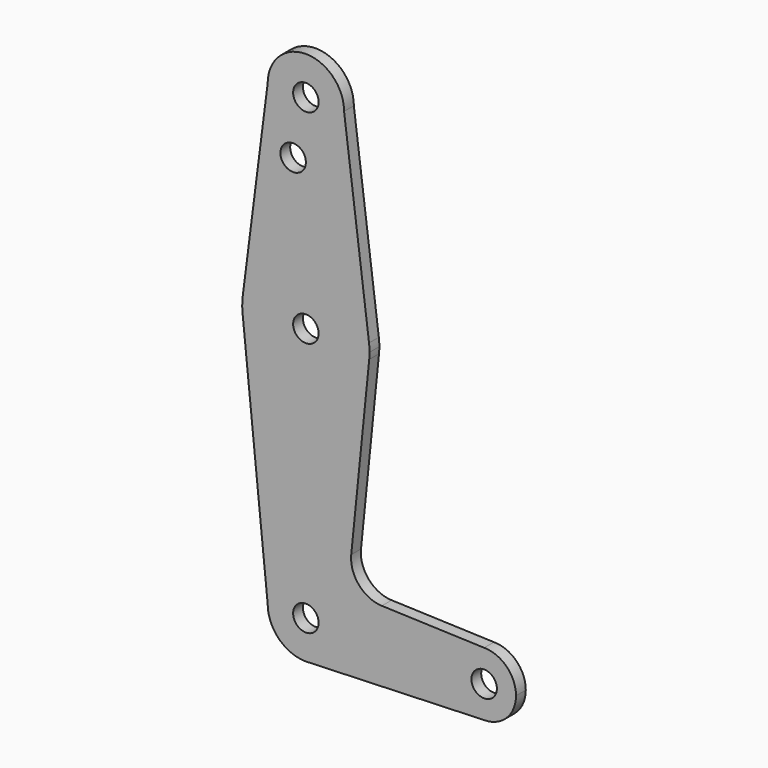
from build123d import *

# Parameters (mm, degrees)
F0_R     = 3.175
F1_DEPTH = 3.048


with BuildPart() as f1:
    # F0 (on Front) → F1 (new body)
    with BuildSketch(Plane.XZ):
        with BuildLine():
            ThreePointArc((9.525, 114.3), (0, 123.825), (-9.525, 114.3))
            ThreePointArc((-9.525, 114.3), (0, 104.775), (9.525, 114.3))
        make_face()
        with Locations((0, 114.3)):
            Circle(F0_R, mode=Mode.SUBTRACT)
        with BuildLine():
            Line((-9.525, 114.3), (-15.747457, 65.508289))
            ThreePointArc((-15.747457, 65.508289), (0, 79.375), (15.747457, 65.508289))
            Line((15.747457, 65.508289), (9.525, 114.3))
            ThreePointArc((9.525, 114.3), (0, 104.775), (-9.525, 114.3))
        make_face()
        with Locations((-3.175, 100.0252)):
            Circle(F0_R, mode=Mode.SUBTRACT)
        with BuildLine():
            ThreePointArc((-15.747457, 65.508289), (-15.873668, 63.705667), (-15.794203, 61.90038))
            ThreePointArc((-15.794203, 61.90038), (0, 47.625), (15.794203, 61.90038))
            ThreePointArc((15.794203, 61.90038), (15.854788, 62.699171), (15.875, 63.5))
            ThreePointArc((15.875, 63.5), (15.843082, 64.506168), (15.747457, 65.508289))
            ThreePointArc((15.747457, 65.508289), (0, 79.375), (-15.747457, 65.508289))
        make_face()
        with Locations((0, 63.5)):
            Circle(F0_R, mode=Mode.SUBTRACT)
        with BuildLine():
            ThreePointArc((-9.525, 0), (0, 9.525), (9.525, 0))
            ThreePointArc((9.525, 0), (6.97129, -6.490511), (0.67949, -9.500732))
            Line((0.67949, -9.500732), (44.45, -7.9375))
            ThreePointArc((44.45, -7.9375), (36.5125, 0), (44.45, 7.9375))
            Line((44.45, 7.9375), (18.932989, 8.848822))
            ThreePointArc((18.932989, 8.848822), (13.224462, 11.569184), (11.307007, 17.595046))
            Line((11.307007, 17.595046), (15.794203, 61.90038))
            ThreePointArc((15.794203, 61.90038), (0, 47.625), (-15.794203, 61.90038))
            Line((-15.794203, 61.90038), (-9.525, 0))
        make_face()
        with BuildLine():
            ThreePointArc((44.45, 7.9375), (36.5125, 0), (44.45, -7.9375))
            ThreePointArc((44.45, -7.9375), (50.06266, -5.61266), (52.3875, 0))
            ThreePointArc((52.3875, 0), (50.06266, 5.61266), (44.45, 7.9375))
        make_face()
        with Locations((44.45, 0)):
            Circle(F0_R, mode=Mode.SUBTRACT)
        with BuildLine():
            ThreePointArc((0.67949, -9.500732), (6.97129, -6.490511), (9.525, 0))
            ThreePointArc((9.525, 0), (0, 9.525), (-9.525, 0))
            ThreePointArc((-9.525, 0), (-6.735192, -6.735192), (0, -9.525))
            Line((0, -9.525), (0.67949, -9.500732))
        make_face()
        Circle(F0_R, mode=Mode.SUBTRACT)
    extrude(amount=F1_DEPTH)


solid = f1.part
